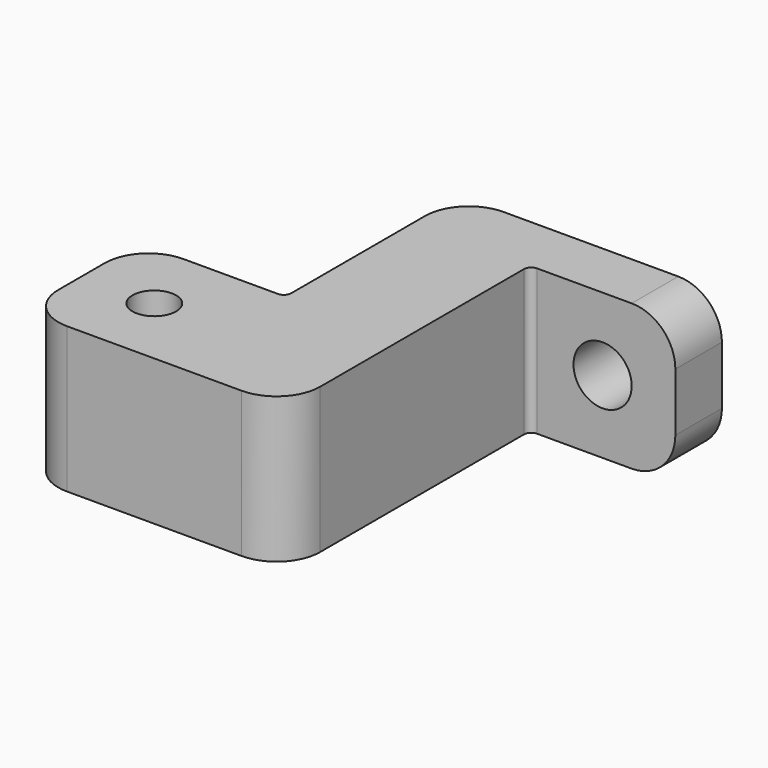
from build123d import *

# Parameters (mm, degrees)
F1_DEPTH  = 10
F2_R      = 3
F3_R      = 1.5
F4_DEPTH  = 10.001
F5_R      = 2
F6_DEPTH  = 8
F7_R      = 3
F8_DEPTH  = 6
F9_R      = 4
F10_DEPTH = 4
F11_R     = 3
F12_R     = 2
F13_DEPTH = 4.001
F14_R     = 3
F15_R     = 0.5


with BuildPart() as f1:
    # F0 (on Top) → F1 (new body)
    with BuildSketch(Plane.XY):
        Polygon((14, 12.5), (4, 12.5), (-4, 12.5), (-4, -2.5), (-14, -2.5), (-14, -12.5), (-4, -12.5), (4, -12.5), (4, 8.5), (14, 8.5), align=None)
    extrude(amount=F1_DEPTH)

    # F2
    f2_edges = [f1.edges().sort_by_distance(p)[0] for p in [
        (-4, 12.5, 5),
        (4, -12.5, 5),
    ]]
    fillet(f2_edges, radius=F2_R)

    # F3 (on face) → F4 (cut, through all)
    with BuildSketch(Plane(origin=(0, 0, 0), x_dir=(1, 0, 0), z_dir=(0, 0, -1))):
        with Locations((-9, 7.5)):
            Circle(F3_R)
    extrude(amount=-F4_DEPTH, mode=Mode.SUBTRACT)

    # F5 (on face) → F6 (cut)
    with BuildSketch(Plane(origin=(0, 0, 0), x_dir=(1, 0, 0), z_dir=(0, 0, -1))):
        with Locations((-9, 7.5)):
            Circle(F5_R)
    extrude(amount=-F6_DEPTH, mode=Mode.SUBTRACT)

    # F7 (on face) → F8 (cut)
    with BuildSketch(Plane(origin=(0, 0, 0), x_dir=(1, 0, 0), z_dir=(0, 0, -1))):
        with Locations((-9, 7.5)):
            Circle(F7_R)
    extrude(amount=-F8_DEPTH, mode=Mode.SUBTRACT)

    # F9 (on face) → F10 (cut)
    with BuildSketch(Plane(origin=(0, 0, 0), x_dir=(1, 0, 0), z_dir=(0, 0, -1))):
        with Locations((-9, 7.5)):
            Circle(F9_R)
    extrude(amount=-F10_DEPTH, mode=Mode.SUBTRACT)

    # F11
    f11_edges = [f1.edges().sort_by_distance(p)[0] for p in [
        (-14, -2.5, 5),
        (-14, -12.5, 5),
    ]]
    fillet(f11_edges, radius=F11_R)

    # F12 (on face) → F13 (cut, through all)
    with BuildSketch(Plane.XZ.offset(-8.5)):
        with Locations((9, 5)):
            Circle(F12_R)
    extrude(amount=-F13_DEPTH, mode=Mode.SUBTRACT)

    # F14
    f14_edges = [f1.edges().sort_by_distance(p)[0] for p in [
        (14, 10.5, 0),
        (14, 10.5, 10),
    ]]
    fillet(f14_edges, radius=F14_R)

    # F15
    f15_edges = [f1.edges().sort_by_distance(p)[0] for p in [
        (4, 8.5, 5),
        (-4, -2.5, 5),
    ]]
    fillet(f15_edges, radius=F15_R)


solid = f1.part
